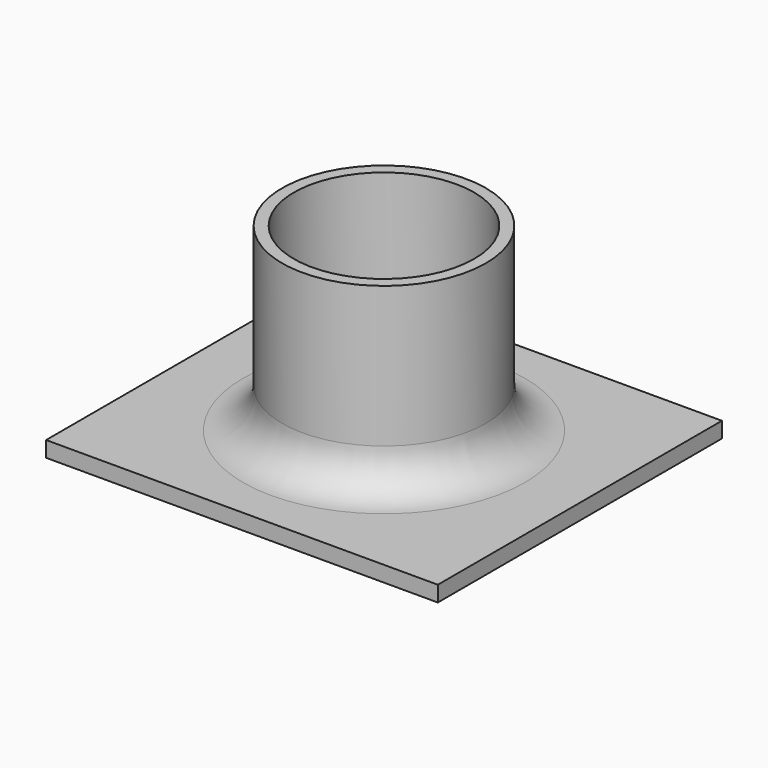
from build123d import *

# Parameters (mm, degrees)
F1_W      = 50
F1_H      = 45.323998
F2_DEPTH  = 2
F0_R      = 13
F0_R_2    = 11.5
F3_DEPTH  = 25
F3_FACE_R = 11.5
F4_DEPTH  = 25
F5_R      = 5


with BuildPart() as f2:
    # F1 (on Top) → F2 (new body)
    with BuildSketch(Plane.XY):
        Rectangle(F1_W, F1_H)
    extrude(amount=F2_DEPTH)

    # F0 (on Top) → F3 (join)
    with BuildSketch(Plane.XY):
        Circle(F0_R)
        Circle(F0_R_2, mode=Mode.SUBTRACT)
    extrude(amount=F3_DEPTH)

    # F3_face (on face) → F4 (cut)
    with BuildSketch(Plane.XY.offset(2)):
        Circle(F3_FACE_R)
    extrude(amount=-F4_DEPTH, mode=Mode.SUBTRACT)

    # F5
    f5_edges = [f2.edges().sort_by_distance(p)[0] for p in [
        (-13, 0, 2),
    ]]
    fillet(f5_edges, radius=F5_R)


solid = f2.part
